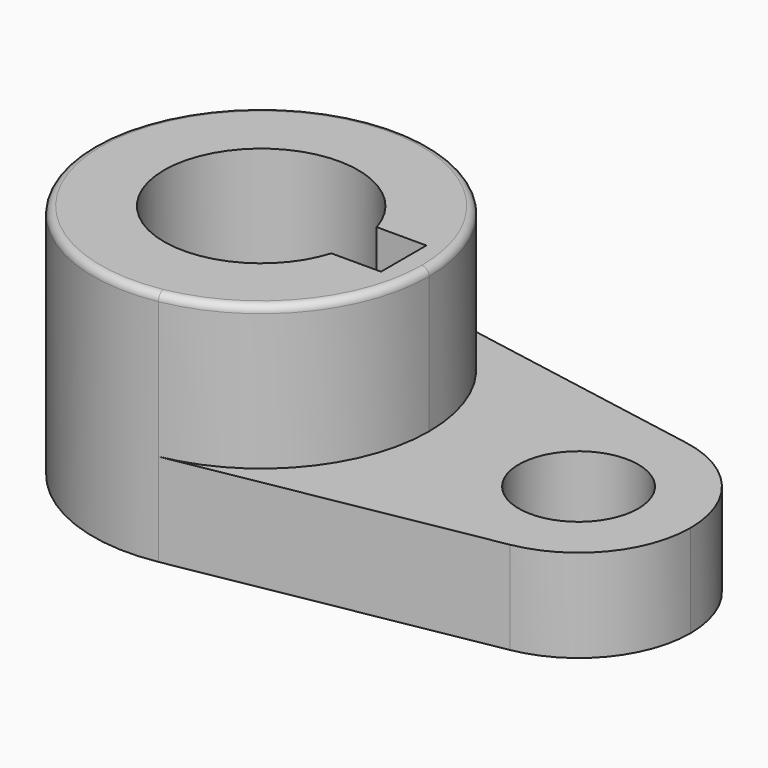
from build123d import *

# Parameters (mm, degrees)
F1_DEPTH = 40.2336
F0_R     = 10.16
F2_DEPTH = 15.7734
F3_R     = 1.27


with BuildPart() as f1:
    # F0 (on Top) → F1 (new body)
    with BuildSketch(Plane.XY):
        with BuildLine():
            ThreePointArc((5.042647, -28.126541), (21.916025, -18.336262), (28.575, 0))
            ThreePointArc((28.575, 0), (21.916025, 18.336262), (5.042647, 28.126541))
            ThreePointArc((5.042647, 28.126541), (-28.575, 0), (5.042647, -28.126541))
        make_face()
        with BuildLine():
            ThreePointArc((15.788915, -4.826), (-16.51, 0), (15.788915, 4.826))
            Line((15.788915, 4.826), (24.240017, 4.826))
            Line((24.240017, 4.826), (24.240017, -4.826))
            Line((24.240017, -4.826), (15.788915, -4.826))
        make_face(mode=Mode.SUBTRACT)
    extrude(amount=F1_DEPTH)

    # F0 (on Top) → F2 (join)
    with BuildSketch(Plane.XY):
        with BuildLine():
            ThreePointArc((73.025, 0), (68.585683, 12.224174), (57.336765, 18.751028))
            ThreePointArc((57.336765, 18.751028), (34.925, 0), (57.336765, -18.751028))
            ThreePointArc((57.336765, -18.751028), (68.585683, -12.224174), (73.025, 0))
        make_face()
        with Locations((53.975, 0)):
            Circle(F0_R, mode=Mode.SUBTRACT)
        with BuildLine():
            ThreePointArc((5.042647, 28.126541), (21.916025, 18.336262), (28.575, 0))
            ThreePointArc((28.575, 0), (21.916025, -18.336262), (5.042647, -28.126541))
            Line((5.042647, -28.126541), (57.336765, -18.751028))
            ThreePointArc((57.336765, -18.751028), (34.925, 0), (57.336765, 18.751028))
            Line((57.336765, 18.751028), (5.042647, 28.126541))
        make_face()
    extrude(amount=F2_DEPTH)

    # F3
    f3_edges = [f1.edges().sort_by_distance(p)[0] for p in [
        (-5.042647, 28.126541, 40.2336),
    ]]
    fillet(f3_edges, radius=F3_R)


solid = f1.part
